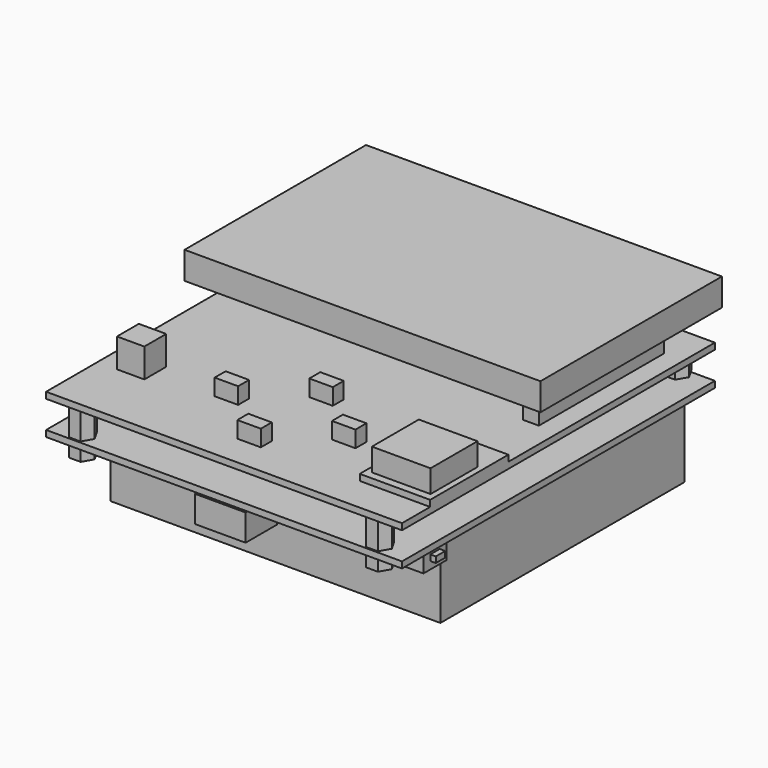
from build123d import *

# Parameters (mm, degrees)
SKETCH001_W   = 91
SKETCH001_H   = 100
PAD_DEPTH     = 1.6
SKETCH002_W   = 84.4
SKETCH002_H   = 78
PAD001_DEPTH  = 20
SKETCH003_W   = 13
SKETCH003_H   = 10
PAD002_DEPTH  = 6.8
SKETCH004_W   = 4.3
SKETCH004_H   = 8.6
PAD003_DEPTH  = 4.6
SKETCH005_W   = 6
SKETCH005_H   = 7.4
PAD004_DEPTH  = 4.4
SKETCH006_W   = 4.2
SKETCH006_H   = 2
PAD005_DEPTH  = 3
SKETCH007_W   = 3
SKETCH007_H   = 1.5
PAD006_DEPTH  = 1.4
PAD007_DEPTH  = 7
SKETCH009_W   = 7
SKETCH009_H   = 9
PAD008_DEPTH  = 3.4
SKETCH010_W   = 5
SKETCH010_H   = 7.4
PAD009_DEPTH  = 2.6
SKETCH011_W   = 91
SKETCH011_H   = 100
PAD010_DEPTH  = 1.6
SKETCH012_W   = 40
SKETCH012_H   = 4
SKETCH012_W_2 = 4
SKETCH012_H_2 = 40
PAD011_DEPTH  = 7.8
SKETCH013_W   = 91
SKETCH013_H   = 58
PAD012_DEPTH  = 7
SKETCH014_W   = 7
SKETCH014_H   = 9
PAD013_DEPTH  = 3.4
PAD014_DEPTH  = 3
SKETCH035_W   = 6
SKETCH035_H   = 3.5
PAD021_DEPTH  = 4.2
SKETCH036_W   = 7
SKETCH036_H   = 7
PAD022_DEPTH  = 7.4
SKETCH037_W   = 18
SKETCH037_H   = 25
PAD023_DEPTH  = 1.6
SKETCH038_W   = 15
SKETCH038_H   = 15
PAD024_DEPTH  = 5.8


with BuildPart() as part:
    # Sketch001 → Pad (new body)
    with BuildSketch(Plane.XY):
        Rectangle(SKETCH001_W, SKETCH001_H)
    extrude(amount=PAD_DEPTH)

    # Sketch002 (on Face5 of Pad) → Pad001 (join)
    with BuildSketch(Plane(origin=(0, 0, 0), x_dir=(1, 0, 0), z_dir=(0, 0, -1))):
        with Locations((0, -5.4)):
            Rectangle(SKETCH002_W, SKETCH002_H)
    extrude(amount=PAD001_DEPTH)

    # Sketch003 (on Face4 of Pad001) → Pad002 (join)
    with BuildSketch(Plane(origin=(0, 0, 0), x_dir=(1, 0, 0), z_dir=(0, 0, -1))):
        with Locations((-0.5, 45.6)):
            Rectangle(SKETCH003_W, SKETCH003_H)
    extrude(amount=PAD002_DEPTH)

    # Sketch004 (on Face4 of Pad002) → Pad003 (join)
    with BuildSketch(Plane(origin=(0, 0, 0), x_dir=(1, 0, 0), z_dir=(0, 0, -1))):
        with Locations((-41.95, 38.3)):
            Rectangle(SKETCH004_W, SKETCH004_H)
    extrude(amount=PAD003_DEPTH)

    # Sketch005 (on Face4 of Pad003) → Pad004 (join)
    with BuildSketch(Plane(origin=(0, 0, 0), x_dir=(1, 0, 0), z_dir=(0, 0, -1))):
        with Locations((41.9, 38.7)):
            Rectangle(SKETCH005_W, SKETCH005_H)
    extrude(amount=PAD004_DEPTH)

    # Sketch006 (on Face14 of Pad004) → Pad005 (join)
    with BuildSketch(Plane(origin=(-44.1, 0, 0), x_dir=(0, -1, 0), z_dir=(-1, 0, 0))):
        with Locations((38.3, -2)):
            Rectangle(SKETCH006_W, SKETCH006_H)
    extrude(amount=PAD005_DEPTH)

    # Sketch007 (on Face12 of Pad005) → Pad006 (join)
    with BuildSketch(Plane.YZ.offset(44.9)):
        with Locations((-38.7, -1.75)):
            Rectangle(SKETCH007_W, SKETCH007_H)
    extrude(amount=PAD006_DEPTH)

    # Sketch008 (on Face5 of Pad006) → Pad007 (join)
    with BuildSketch(Plane.XY.offset(1.6)):
        Polygon((-40, 45.401924), (-37, 45.401924), (-35.5, 48), (-37, 50.598076), (-40, 50.598076), (-41.5, 48), align=None)
        Polygon((39, 45.401924), (40.5, 48), (39, 50.598076), (36, 50.598076), (34.5, 48), (36, 45.401924), align=None)
        Polygon((-37, -49.598076), (-35.5, -47), (-37, -44.401924), (-40, -44.401924), (-41.5, -47), (-40, -49.598076), align=None)
        Polygon((39, -49.598076), (40.5, -47), (39, -44.401924), (36, -44.401924), (34.5, -47), (36, -49.598076), align=None)
    extrude(amount=PAD007_DEPTH)

    # Sketch009 (on Face5 of Pad007) → Pad008 (join)
    with BuildSketch(Plane.XY.offset(1.6)):
        with Locations((-42, 37.5)):
            Rectangle(SKETCH009_W, SKETCH009_H)
    extrude(amount=PAD008_DEPTH)

    # Sketch010 (on Face5 of Pad008) → Pad009 (join)
    with BuildSketch(Plane.XY.offset(1.6)):
        with Locations((-42, 25.3)):
            Rectangle(SKETCH010_W, SKETCH010_H)
    extrude(amount=PAD009_DEPTH)

    # Sketch011 (on Face74 of Pad009) → Pad010 (join)
    with BuildSketch(Plane.XY.offset(8.6)):
        Rectangle(SKETCH011_W, SKETCH011_H)
    extrude(amount=PAD010_DEPTH)

    # Sketch012 (on Face81 of Pad010) → Pad011 (join)
    with BuildSketch(Plane.XY.offset(10.2)):
        with Locations((0, 44)):
            Rectangle(SKETCH012_W, SKETCH012_H)
        with Locations((38.5, 20)):
            Rectangle(SKETCH012_W_2, SKETCH012_H_2)
    extrude(amount=PAD011_DEPTH)

    # Sketch013 (on Face91 of Pad011) → Pad012 (join)
    with BuildSketch(Plane.XY.offset(18)):
        with Locations((1, 22)):
            Rectangle(SKETCH013_W, SKETCH013_H)
    extrude(amount=PAD012_DEPTH)

    # Sketch014 (on Face4 of Pad012) → Pad013 (join)
    with BuildSketch(Plane(origin=(0, 0, 18), x_dir=(1, 0, 0), z_dir=(0, 0, -1))):
        with Locations((-41, -39.5)):
            Rectangle(SKETCH014_W, SKETCH014_H)
    extrude(amount=PAD013_DEPTH)

    # Sketch015 (on Face66 of Pad013) → Pad014 (join)
    with BuildSketch(Plane(origin=(0, 0, 0), x_dir=(1, 0, 0), z_dir=(0, 0, -1))):
        Polygon((-35.5, 47), (-37, 49.598076), (-40, 49.598076), (-41.5, 47), (-40, 44.401924), (-37, 44.401924), align=None)
        Polygon((39, 44.401924), (40.5, 47), (39, 49.598076), (36, 49.598076), (34.5, 47), (36, 44.401924), align=None)
        Polygon((-37, -50.598076), (-35.5, -48), (-37, -45.401924), (-40, -45.401924), (-41.5, -48), (-40, -50.598076), align=None)
        Polygon((39, -50.598076), (40.5, -48), (39, -45.401924), (36, -45.401924), (34.5, -48), (36, -50.598076), align=None)
    extrude(amount=PAD014_DEPTH)

    # Sketch035 (on Face20 of Pad014) → Pad021 (join)
    with BuildSketch(Plane.XY.offset(10.2)):
        with Locations((-15, -28.75)):
            Rectangle(SKETCH035_W, SKETCH035_H)
        with Locations((0, -17.25)):
            Rectangle(SKETCH035_W, SKETCH035_H)
        with Locations((15, -28.75)):
            Rectangle(SKETCH035_W, SKETCH035_H)
        with Locations((0, -40.25)):
            Rectangle(SKETCH035_W, SKETCH035_H)
    extrude(amount=PAD021_DEPTH)

    # Sketch036 (on Face20 of Pad021) → Pad022 (join)
    with BuildSketch(Plane.XY.offset(10.2)):
        with Locations((-37, -30.1)):
            Rectangle(SKETCH036_W, SKETCH036_H)
    extrude(amount=PAD022_DEPTH)

    # Sketch037 (on Face20 of Pad022) → Pad023 (join)
    with BuildSketch(Plane.XY.offset(10.2)):
        with Locations((36.5, -28.5)):
            Rectangle(SKETCH037_W, SKETCH037_H)
    extrude(amount=PAD023_DEPTH)

    # Sketch038 (on Face50 of Pad023) → Pad024 (join)
    with BuildSketch(Plane.XY.offset(11.8)):
        with Locations((36.5, -31.5)):
            Rectangle(SKETCH038_W, SKETCH038_H)
    extrude(amount=PAD024_DEPTH)


solid = part.part
